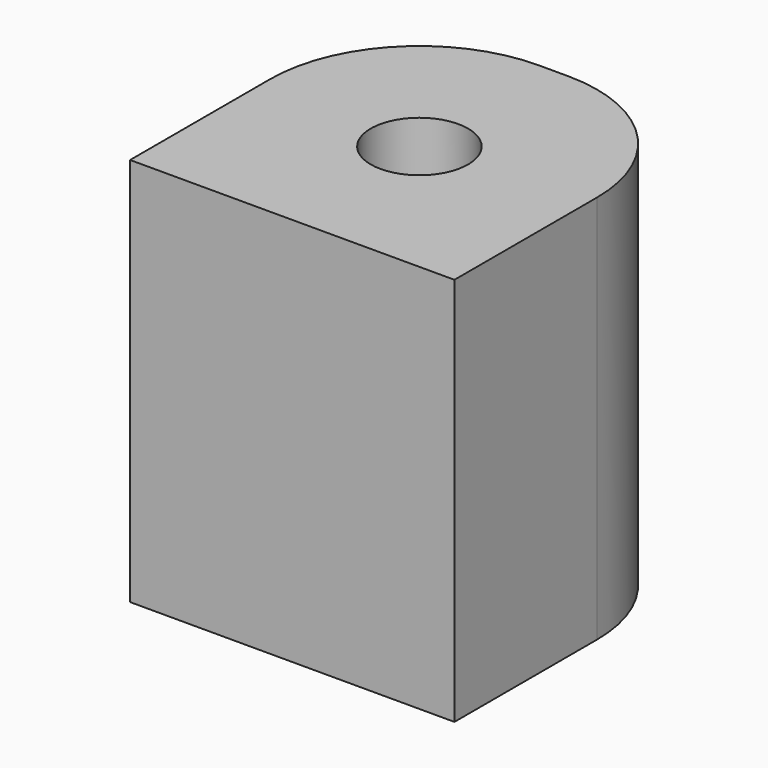
from build123d import *

# Parameters (mm, degrees)
CYLINDER003_R             = 1.5
CYLINDER003_DEPTH         = 20
BOX037_W                  = 10
BOX037_H                  = 10
BOX037_DEPTH              = 12
FILLET013_R               = 4.5
FILLET014_R               = 4.6
FILLET014_PLACEMENT_ANGLE = 90


with BuildPart() as cylinder003:
    # Cylinder003 → Cylinder003 (new body)
    with BuildSketch(Plane(origin=(-103.2, 5, -48.3), x_dir=(1, 0, 0), z_dir=(0, 0, 1))):
        Circle(CYLINDER003_R)
    extrude(amount=CYLINDER003_DEPTH)


with BuildPart() as fillet014:
    # Box037 → Box037 (new body)
    with BuildSketch(Plane(origin=(-108.3, 0, -49.2), x_dir=(1, 0, 0), z_dir=(0, 0, 1))):
        with Locations((5, 5)):
            Rectangle(BOX037_W, BOX037_H)
    extrude(amount=BOX037_DEPTH)

    # Cut020: cut Cylinder003
    add(cylinder003.part, mode=Mode.SUBTRACT)

    # Fillet013
    fillet013_edges = [fillet014.edges().sort_by_distance(p)[0] for p in [
        (-108.3, 10, -43.2),
    ]]
    fillet(fillet013_edges, radius=FILLET013_R)

    # Fillet014
    fillet014_edges = [fillet014.edges().sort_by_distance(p)[0] for p in [
        (-108.3, 0, -43.2),
    ]]
    fillet(fillet014_edges, radius=FILLET014_R)


with BuildPart() as fillet014_1:
    # Fillet014 placement: moved
    add(fillet014.part.moved(Location((23.403045, -81.579418, 43.36))).rotate(Axis((23.403045, -81.579418, 43.36), (0, 0, -1)), FILLET014_PLACEMENT_ANGLE))


solid = fillet014_1.part
